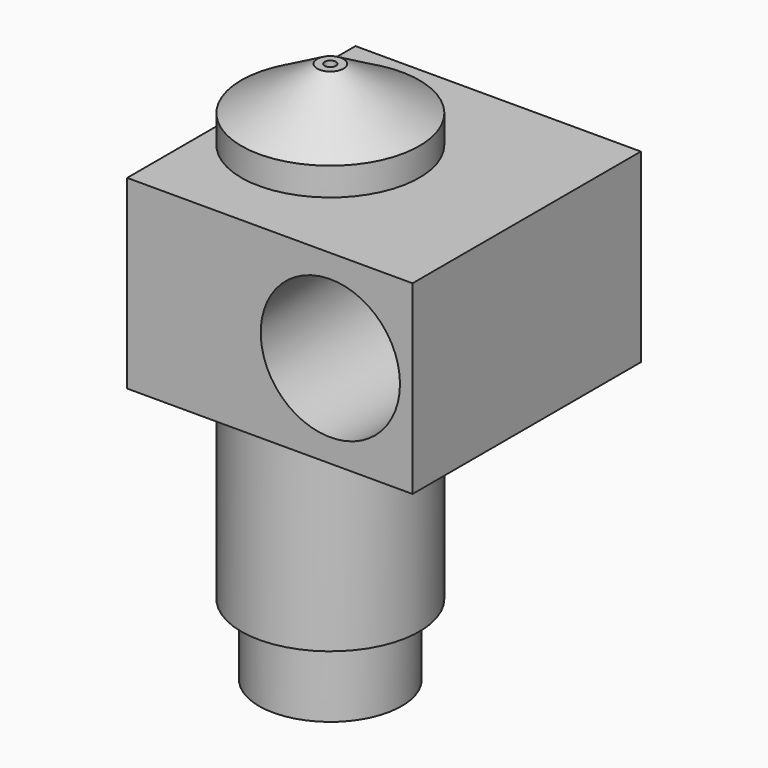
from build123d import *

# Parameters (mm, degrees)
F0_W      = 12.7
F0_H      = 12.7
F1_DEPTH  = 8.255
F2_R      = 3.0988
F3_DEPTH  = 12.701
F7_R      = 1.016
F8_DEPTH  = 22.89513
F9_R      = 0.25
F10_DEPTH = 24.131


with BuildPart() as f1:
    # F0 (on Top) → F1 (new body)
    with BuildSketch(Plane.XY):
        Rectangle(F0_W, F0_H)
    extrude(amount=F1_DEPTH)

    # F2 (on face) → F3 (cut, through all)
    with BuildSketch(Plane.XZ.offset(6.35)):
        with Locations((2.6924, 4.1275)):
            Circle(F2_R)
    extrude(amount=-F3_DEPTH, mode=Mode.SUBTRACT)

    # F4 (on Front) → F5 (revolve)
    with BuildSketch(Plane.XZ):
        Polygon((-2.3876, 8.255), (-2.3876, 11.43), (-2.9718, 11.43), (-6.35, 9.4996), (-6.35, 8.255), align=None)
    revolve(axis=Axis((-2.3876, 0, 3.00711), (0, 0, -1)))

    # F4 (on Front) → F6 (revolve)
    with BuildSketch(Plane.XZ):
        Polygon((-2.3876, -12.7), (-2.3876, 0), (-6.35, 0), (-6.35, -9.525), (-5.5626, -9.525), (-5.5626, -12.7), align=None)
    revolve(axis=Axis((-2.3876, 0, 3.00711), (0, 0, -1)))

    # F7 (on face) → F8 (cut)
    with BuildSketch(Plane(origin=(0, 0, -12.7), x_dir=(1, 0, 0), z_dir=(0, 0, -1))):
        with Locations((-2.3876, 0)):
            Circle(F7_R)
    extrude(amount=-F8_DEPTH, mode=Mode.SUBTRACT)

    # F9 (on face) → F10 (cut, through all)
    with BuildSketch(Plane.XY.offset(11.43)):
        with Locations((-2.3876, 0)):
            Circle(F9_R)
    extrude(amount=-F10_DEPTH, mode=Mode.SUBTRACT)


solid = f1.part
